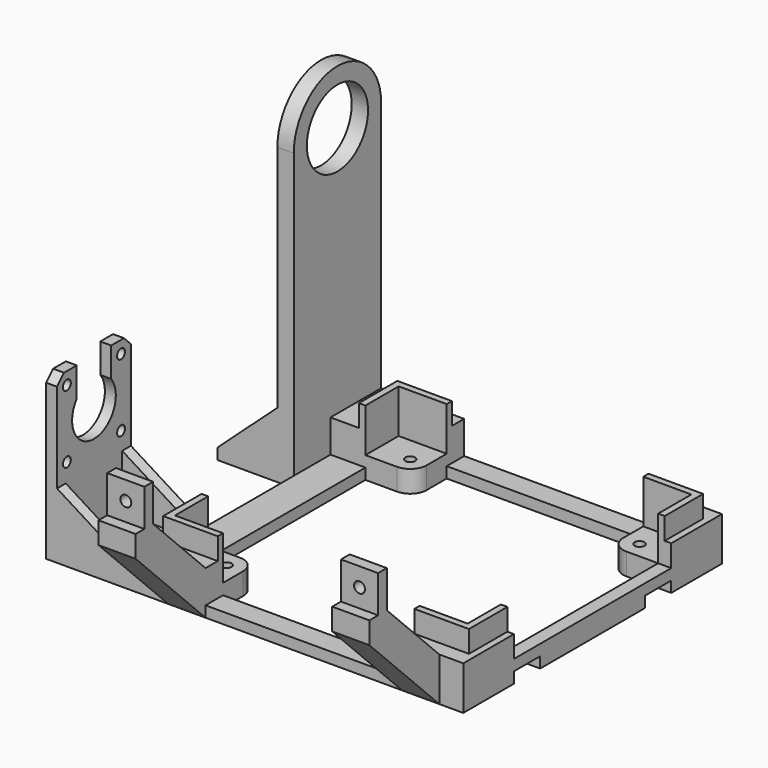
from build123d import *

# Parameters (mm, degrees)
F0_W      = 146
F0_H      = 148
F0_W_2    = 134
F0_H_2    = 128
F1_DEPTH  = 20
F2_W      = 140
F2_H      = 134
F2_W_2    = 134
F2_H_2    = 128
F3_DEPTH  = 10
F4_W      = 90
F4_H      = 25
F5_DEPTH  = 149.278288
F6_W      = 90
F6_H      = 25
F7_DEPTH  = 148.001
F8_W      = 17
F8_H      = 67
F8_R      = 2.5
F9_DEPTH  = 40
F10_W     = 5
F10_H     = 17
F11_DEPTH = 135.001
F12_W     = 148
F12_H     = 5
F13_DEPTH = 10
F14_R     = 17.5
F15_DEPTH = 7.5
F16_W     = 10
F16_H     = 29
F17_DEPTH = 15
F18_W     = 6
F18_H     = 90
F19_DEPTH = 5
F20_W     = 15
F20_H     = 5
F21_DEPTH = 6
F23_W     = 42.3
F23_H     = 5
F24_DEPTH = 30
F25_R     = 2.25
F26_DEPTH = 5
F27_SIZE  = 4
F28_W     = 40
F28_H     = 5
F29_DEPTH = 25
F31_DEPTH = 42.3
F32_W     = 5
F32_H     = 30
F33_DEPTH = 27.5
F35_DEPTH = 50
F36_R     = 2.25
F37_DEPTH = 10
F39_DEPTH = 5


with BuildPart() as f1:
    # F0 (on Top) → F1 (new body)
    with BuildSketch(Plane.XY):
        with Locations((76.277288, 74)):
            Rectangle(F0_W, F0_H)
        with Locations((76.277288, 74)):
            Rectangle(F0_W_2, F0_H_2, mode=Mode.SUBTRACT)
    extrude(amount=F1_DEPTH)

    # F2 (on face) → F3 (join)
    with BuildSketch(Plane.XY.offset(20)):
        with Locations((76.277288, 74)):
            Rectangle(F2_W, F2_H)
        with Locations((76.277288, 74)):
            Rectangle(F2_W_2, F2_H_2, mode=Mode.SUBTRACT)
    extrude(amount=F3_DEPTH)

    # F4 (on Right) → F5 (cut, through all)
    with BuildSketch(Plane.YZ):
        with Locations((74, 17.5)):
            Rectangle(F4_W, F4_H)
    extrude(amount=F5_DEPTH, mode=Mode.SUBTRACT)

    # F6 (on Front) → F7 (cut, through all)
    with BuildSketch(Plane.XZ):
        with Locations((76.277288, 17.5)):
            Rectangle(F6_W, F6_H)
    extrude(amount=-F7_DEPTH, mode=Mode.SUBTRACT)

    # F8 (on face) → F9 (join)
    with BuildSketch(Plane.XZ):
        with Locations((22.777288, 33.5)):
            Rectangle(F8_W, F8_H)
        with Locations((22.777288, 58.5)):
            Circle(F8_R, mode=Mode.SUBTRACT)
        with Locations((129.777288, 33.5)):
            Rectangle(F8_W, F8_H)
        with Locations((129.777288, 58.5)):
            Circle(F8_R, mode=Mode.SUBTRACT)
    extrude(amount=F9_DEPTH)

    # F10 (on face) → F11 (cut, through all)
    with BuildSketch(Plane(origin=(14.277288, 0, 0), x_dir=(0, -1, 0), z_dir=(-1, 0, 0))):
        Polygon((0, 67), (0, 20), (30, 50), (30, 67), align=None)
        with Locations((37.5, 58.5)):
            Rectangle(F10_W, F10_H)
        Polygon((40, 40), (0, 0), (40, 0), align=None)
    extrude(amount=-F11_DEPTH, mode=Mode.SUBTRACT)

    # F12 (on face) → F13 (join)
    with BuildSketch(Plane(origin=(3.277288, 0, 0), x_dir=(0, -1, 0), z_dir=(-1, 0, 0))):
        with Locations((-74, 2.5)):
            Rectangle(F12_W, F12_H)
    extrude(amount=F13_DEPTH)

    # F14 (on face) → F15 (join)
    with BuildSketch(Plane(origin=(-6.722712, 0, 0), x_dir=(0, -1, 0), z_dir=(-1, 0, 0))):
        with BuildLine():
            Line((-148, 135), (-148, 0))
            Line((-148, 0), (-98, 0))
            Line((-98, 0), (-98, 135))
            ThreePointArc((-98, 135), (-123, 160), (-148, 135))
        make_face()
        with Locations((-123, 135)):
            Circle(F14_R, mode=Mode.SUBTRACT)
    extrude(amount=F15_DEPTH)

    # F16 (on face) → F17 (join, through all)
    with BuildSketch(Plane.XY.offset(5)):
        with Locations((-1.722712, 133.5)):
            Rectangle(F16_W, F16_H)
    extrude(amount=F17_DEPTH)

    # F18 (on face) → F19 (join)
    with BuildSketch(Plane.XY.offset(5)):
        with Locations((146.277288, 74)):
            Rectangle(F18_W, F18_H)
    extrude(amount=F19_DEPTH)

    # F20 (on face) → F21 (cut, through all)
    with BuildSketch(Plane.YZ.offset(149.277288)):
        with Locations((36.5, 2.5)):
            Rectangle(F20_W, F20_H)
        with Locations((111.5, 2.5)):
            Rectangle(F20_W, F20_H)
    extrude(amount=-F21_DEPTH, mode=Mode.SUBTRACT)

    # F23 (on face) → F24 (join)
    with BuildSketch(Plane(origin=(-6.722712, 0, 0), x_dir=(0, -1, 0), z_dir=(-1, 0, 0))):
        with Locations((-21.15, 2.5)):
            Rectangle(F23_W, F23_H)
    extrude(amount=F24_DEPTH)

    # F25 (on face) → F26 (join)
    with BuildSketch(Plane(origin=(-36.722712, 0, 0), x_dir=(0, -1, 0), z_dir=(-1, 0, 0))):
        with BuildLine():
            Line((-42.3, 75), (-42.3, 0))
            Line((-42.3, 0), (0, 0))
            Line((0, 0), (0, 75))
            Line((0, 75), (-11.3, 75))
            Line((-11.3, 75), (-11.3, 61.54594))
            ThreePointArc((-11.3, 61.54594), (-21.15, 41.35), (-31, 61.54594))
            Line((-31, 61.54594), (-31, 75))
            Line((-31, 75), (-42.3, 75))
        make_face()
        with Locations((-36.65, 38.35)):
            Circle(F25_R, mode=Mode.SUBTRACT)
        with Locations((-36.65, 69.35)):
            Circle(F25_R, mode=Mode.SUBTRACT)
        with Locations((-5.65, 38.35)):
            Circle(F25_R, mode=Mode.SUBTRACT)
        with Locations((-5.65, 69.35)):
            Circle(F25_R, mode=Mode.SUBTRACT)
    extrude(amount=F26_DEPTH)

    # F27
    f27_edges = [f1.edges().sort_by_distance(p)[0] for p in [
        (-39.222712, 42.3, 75),
        (-39.222712, 0, 75),
    ]]
    chamfer(f27_edges, length=F27_SIZE)

    # F28 (on face) → F29 (join)
    with BuildSketch(Plane.XY.offset(5)):
        with Locations((-16.722712, 39.8)):
            Rectangle(F28_W, F28_H)
        with Locations((-16.722712, 2.5)):
            Rectangle(F28_W, F28_H)
    extrude(amount=F29_DEPTH)

    # F30 (on face) → F31 (cut, through all)
    with BuildSketch(Plane.XZ):
        Polygon((3.277288, 30), (-36.722712, 30), (3.277288, 5), align=None)
    extrude(amount=-F31_DEPTH, mode=Mode.SUBTRACT)

    # F32 (on face) → F33 (join, through all)
    with BuildSketch(Plane(origin=(-14.222712, 0, 0), x_dir=(0, -1, 0), z_dir=(-1, 0, 0))):
        with Locations((-145.5, 15)):
            Rectangle(F32_W, F32_H)
        with Locations((-100.5, 15)):
            Rectangle(F32_W, F32_H)
    extrude(amount=F33_DEPTH)

    # F34 (on face) → F35 (cut, through all)
    with BuildSketch(Plane(origin=(0, 148, 0), x_dir=(-1, 0, 0), z_dir=(0, 1, 0))):
        Polygon((41.722712, 5), (41.722712, 30), (14.222712, 30), align=None)
    extrude(amount=-F35_DEPTH, mode=Mode.SUBTRACT)

    # F36 (on Top) → F37 (join)
    with BuildSketch(Plane.XY):
        with BuildLine():
            Line((31.277288, 10), (31.277288, 21.5))
            ThreePointArc((31.277288, 21.5), (29.080588, 26.803301), (23.777288, 29))
            Line((23.777288, 29), (9.277288, 29))
            Line((9.277288, 29), (9.277288, 10))
            Line((9.277288, 10), (31.277288, 10))
        make_face()
        with Locations((23.777288, 21.5)):
            Circle(F36_R, mode=Mode.SUBTRACT)
        with BuildLine():
            Line((121.277288, 21.5), (121.277288, 10))
            Line((121.277288, 10), (143.277288, 10))
            Line((143.277288, 10), (143.277288, 29))
            Line((143.277288, 29), (128.777288, 29))
            ThreePointArc((128.777288, 29), (123.473987, 26.803301), (121.277288, 21.5))
        make_face()
        with Locations((128.777288, 21.5)):
            Circle(F36_R, mode=Mode.SUBTRACT)
        with BuildLine():
            Line((143.277288, 138), (121.277288, 138))
            Line((121.277288, 138), (121.277288, 126.5))
            ThreePointArc((121.277288, 126.5), (123.473987, 121.196699), (128.777288, 119))
            Line((128.777288, 119), (143.277288, 119))
            Line((143.277288, 119), (143.277288, 138))
        make_face()
        with Locations((128.777288, 126.5)):
            Circle(F36_R, mode=Mode.SUBTRACT)
        with BuildLine():
            Line((31.277288, 126.5), (31.277288, 138))
            Line((31.277288, 138), (9.277288, 138))
            Line((9.277288, 138), (9.277288, 119))
            Line((9.277288, 119), (23.777288, 119))
            ThreePointArc((23.777288, 119), (29.080588, 121.196699), (31.277288, 126.5))
        make_face()
        with Locations((23.777288, 126.5)):
            Circle(F36_R, mode=Mode.SUBTRACT)
    extrude(amount=F37_DEPTH)

    # F38 (on face) → F39 (cut)
    with BuildSketch(Plane(origin=(0, 0, 0), x_dir=(1, 0, 0), z_dir=(0, 0, -1))):
        Polygon((25.798014, -18), (21.756562, -18), (19.735836, -21.5), (21.756562, -25), (25.798014, -25), (27.818739, -21.5), align=None)
        Polygon((126.756562, -18), (124.735836, -21.5), (126.756562, -25), (130.798014, -25), (132.818739, -21.5), (130.798014, -18), align=None)
        Polygon((126.756562, -130), (130.798014, -130), (132.818739, -126.5), (130.798014, -123), (126.756562, -123), (124.735836, -126.5), align=None)
        Polygon((25.798014, -130), (27.818739, -126.5), (25.798014, -123), (21.756562, -123), (19.735836, -126.5), (21.756562, -130), align=None)
    extrude(amount=-F39_DEPTH, mode=Mode.SUBTRACT)


solid = f1.part
